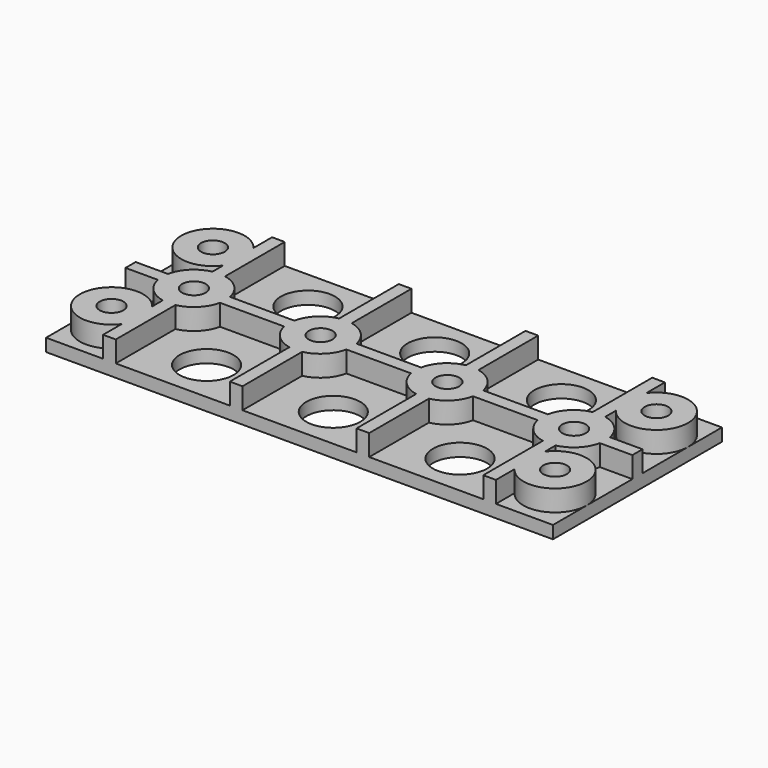
from build123d import *

# Parameters (mm, degrees)
F0_W      = 152.4
F0_H      = 63.5
F1_DEPTH  = 3.81
F2_R      = 8.128
F3_DEPTH  = 3.811
F5_DEPTH  = 10.16
F6_R      = 3.556
F7_DEPTH  = 10.161
F8_R      = 9.525
F9_DEPTH  = 10.16
F10_R     = 9.525
F10_R_2   = 3.556
F11_DEPTH = 10.16
F12_R     = 3.556
F13_DEPTH = 10.161


with BuildPart() as f1:
    # F0 (on Top) → F1 (new body)
    with BuildSketch(Plane.XY):
        with Locations((76.2, 31.75)):
            Rectangle(F0_W, F0_H)
    extrude(amount=F1_DEPTH)

    # F2 (on Top) → F3 (cut, through all)
    with BuildSketch(Plane.XY):
        with Locations((38.1, 12.7)):
            Circle(F2_R)
        with Locations((38.1, 50.8)):
            Circle(F2_R)
        with Locations((76.2, 50.8)):
            Circle(F2_R)
        with Locations((76.2, 12.7)):
            Circle(F2_R)
        with Locations((114.3, 50.8)):
            Circle(F2_R)
        with Locations((114.3, 12.7)):
            Circle(F2_R)
    extrude(amount=F3_DEPTH, mode=Mode.SUBTRACT)

    # F4 (on Top) → F5 (join)
    with BuildSketch(Plane.XY):
        Polygon((59.055, 63.5), (55.245, 63.5), (55.245, 33.655), (20.955, 33.655), (20.955, 63.5), (17.145, 63.5), (17.145, 33.655), (0, 33.655), (0, 29.845), (17.145, 29.845), (17.145, 0), (20.955, 0), (20.955, 29.845), (55.245, 29.845), (55.245, 0), (59.055, 0), (59.055, 29.845), (93.345, 29.845), (93.345, 0), (97.155, 0), (97.155, 29.845), (131.445, 29.845), (131.445, 0), (135.255, 0), (135.255, 29.845), (152.4, 29.845), (152.4, 33.655), (135.255, 33.655), (135.255, 63.5), (131.445, 63.5), (131.445, 33.655), (97.155, 33.655), (97.155, 63.5), (93.345, 63.5), (93.345, 33.655), (59.055, 33.655), align=None)
    extrude(amount=F5_DEPTH)

    # F6 (on Top) → F7 (cut, through all)
    with BuildSketch(Plane.XY):
        with Locations((9.525, 50.8)):
            Circle(F6_R)
        with Locations((9.525, 12.7)):
            Circle(F6_R)
        with Locations((142.875, 12.7)):
            Circle(F6_R)
        with Locations((142.875, 50.8)):
            Circle(F6_R)
    extrude(amount=F7_DEPTH, mode=Mode.SUBTRACT)

    # F8 (on Top) → F9 (join)
    with BuildSketch(Plane.XY):
        with Locations((57.069456, 31.75)):
            Circle(F8_R)
        with Locations((95.169456, 31.75)):
            Circle(F8_R)
        with Locations((19.05, 31.75)):
            Circle(F8_R)
        with Locations((133.269456, 31.75)):
            Circle(F8_R)
    extrude(amount=F9_DEPTH)

    # F10 (on Top) → F11 (join)
    with BuildSketch(Plane.XY):
        with Locations((9.525, 50.8)):
            Circle(F10_R)
        with Locations((9.525, 50.8)):
            Circle(F10_R_2, mode=Mode.SUBTRACT)
        with Locations((9.525, 12.7)):
            Circle(F10_R)
        with Locations((9.525, 12.7)):
            Circle(F10_R_2, mode=Mode.SUBTRACT)
        with Locations((142.875, 50.8)):
            Circle(F10_R)
        with Locations((142.875, 50.8)):
            Circle(F10_R_2, mode=Mode.SUBTRACT)
        with Locations((142.875, 12.7)):
            Circle(F10_R)
        with Locations((142.875, 12.7)):
            Circle(F10_R_2, mode=Mode.SUBTRACT)
    extrude(amount=F11_DEPTH)

    # F12 (on Top) → F13 (cut, through all)
    with BuildSketch(Plane.XY):
        with Locations((19.05, 31.75)):
            Circle(F12_R)
        with Locations((57.15, 31.75)):
            Circle(F12_R)
        with Locations((95.25, 31.75)):
            Circle(F12_R)
        with Locations((133.35, 31.75)):
            Circle(F12_R)
    extrude(amount=F13_DEPTH, mode=Mode.SUBTRACT)


solid = f1.part
